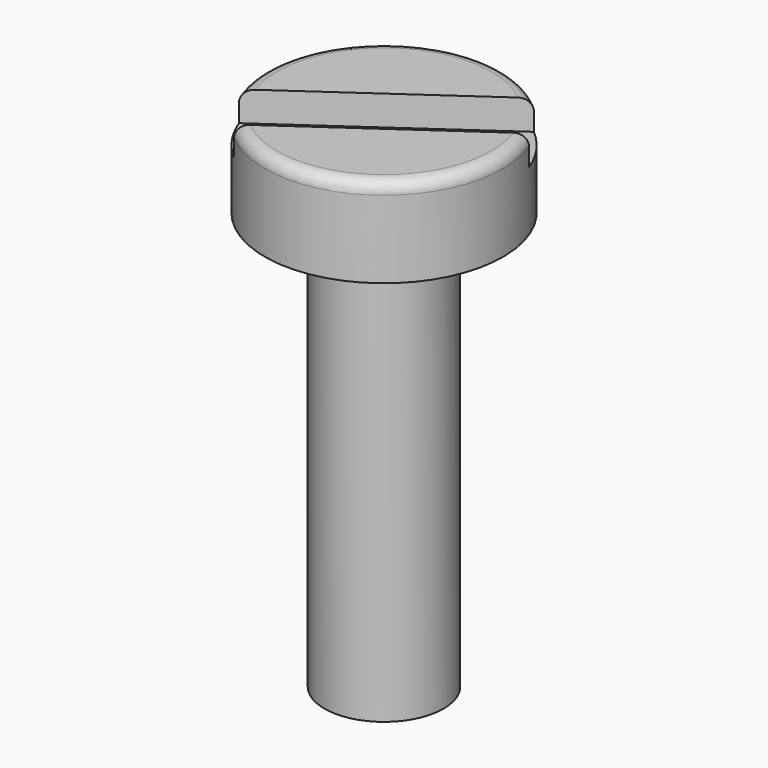
from build123d import *

# Parameters (mm, degrees)
SKETCH003_R             = 2
PAD001_DEPTH            = 1.5
SKETCH004_R             = 1
PAD002_DEPTH            = 7
FILLET_R                = 0.2
SKETCH005_W             = 4.5
SKETCH005_H             = 1
POCKET002_DEPTH         = 0.5
BODY001_PLACEMENT_ANGLE = 35


with BuildPart() as part:
    # Sketch003 → Pad001 (new body)
    with BuildSketch(Plane.XY):
        Circle(SKETCH003_R)
    extrude(amount=PAD001_DEPTH)

    # Sketch004 (on Face2 of Pad001) → Pad002 (join)
    with BuildSketch(Plane(origin=(0, 0, 0), x_dir=(1, 0, 0), z_dir=(0, 0, -1))):
        Circle(SKETCH004_R)
    extrude(amount=PAD002_DEPTH)

    # Fillet
    fillet_edges = [part.edges().sort_by_distance(p)[0] for p in [
        (-2, 0, 1.5),
    ]]
    fillet(fillet_edges, radius=FILLET_R)

    # Sketch005 (on Face3 of Pad002) → Pocket002 (cut)
    with BuildSketch(Plane.XY.offset(1.5)):
        Rectangle(SKETCH005_W, SKETCH005_H)
    extrude(amount=-POCKET002_DEPTH, mode=Mode.SUBTRACT)


with BuildPart() as part_1:
    # Body001 placement: moved
    add(part.part.moved(Location((2.54, 0, 16))).rotate(Axis((2.54, 0, 16), (0, 0, 1)), BODY001_PLACEMENT_ANGLE))


solid = part_1.part
